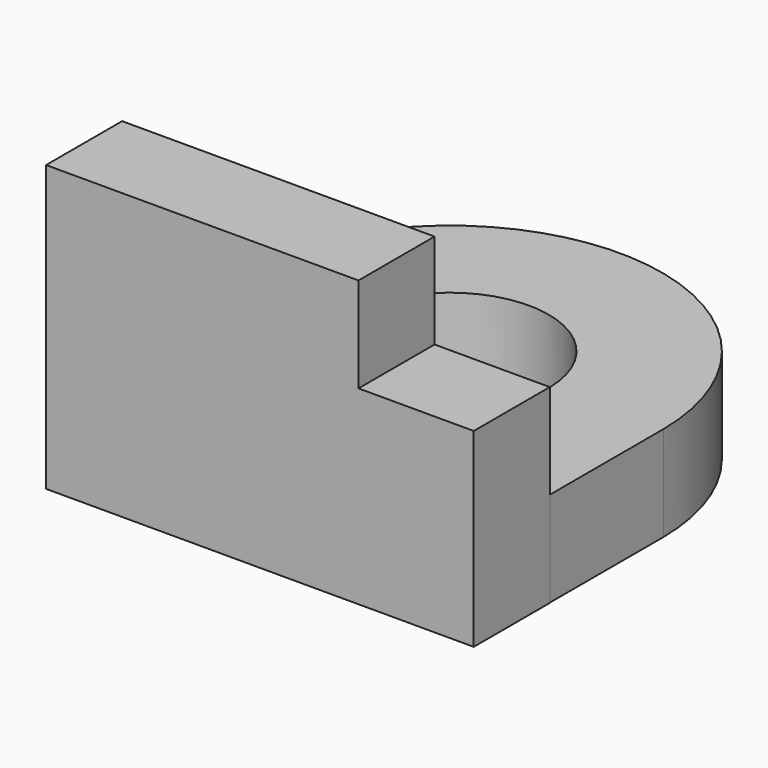
from build123d import *

# Parameters (mm, degrees)
F0_W     = 15.3987973437
F0_H     = 25.4
F1_DEPTH = 12.7
F3_DEPTH = 12.7


with BuildPart() as f1:
    # F0 (on Front) → F1 (new body)
    with BuildSketch(Plane.XZ):
        Polygon((-27.3676061763, 38.1), (-27.3676061763, 0), (14.38359648, 0), (14.38359648, 25.4), (14.38359648, 38.1), align=None)
        with Locations((22.0829951519, 12.7)):
            Rectangle(F0_W, F0_H)
    extrude(amount=F1_DEPTH)

    # F2 (on Top) → F3 (join)
    with BuildSketch(Plane.XY):
        with BuildLine():
            ThreePointArc((29.7399014235, 19.0850179642), (1.3229484896, 47.2574464843), (-27.0940044443, 19.0850179642))
            Line((-27.0940044443, 19.0850179642), (-11.9244960211, 19.0850179642))
            ThreePointArc((-11.9244960211, 19.0850179642), (1.3229484896, 32.0891530572), (14.5703930003, 19.0850179642))
            Line((14.5703930003, 19.0850179642), (29.7399014235, 19.0850179642))
        make_face()
        with BuildLine():
            ThreePointArc((-27.0940044443, 18.5938467712), (-25.2058095454, 8.6507855756), (-19.9528432558, 0))
            Line((-19.9528432558, 0), (22.598740235, 0))
            ThreePointArc((22.598740235, 0), (27.8517065245, 8.6507855756), (29.7399014235, 18.5938467712))
            Line((29.7399014235, 18.5938467712), (29.7399014235, 19.0850179642))
            Line((29.7399014235, 19.0850179642), (14.5703930003, 19.0850179642))
            ThreePointArc((14.5703930003, 19.0850179642), (14.5721001221, 18.96223044), (14.5726691791, 18.8394323677))
            ThreePointArc((14.5726691791, 18.8394323677), (1.2001504173, 5.5902807351), (-11.9244960211, 19.0850179642))
            Line((-11.9244960211, 19.0850179642), (-27.0940044443, 19.0850179642))
            Line((-27.0940044443, 19.0850179642), (-27.0940044443, 18.5938467712))
        make_face()
        with BuildLine():
            ThreePointArc((29.7399014235, 18.5938467712), (27.8517065245, 8.6507855756), (22.598740235, 0))
            Line((22.598740235, 0), (29.7399014235, 0))
            Line((29.7399014235, 0), (29.7399014235, 18.5938467712))
        make_face()
        with BuildLine():
            Line((-27.0940044443, 18.5938467712), (-27.0940044443, 0))
            Line((-27.0940044443, 0), (-19.9528432558, 0))
            ThreePointArc((-19.9528432558, 0), (-25.2058095454, 8.6507855756), (-27.0940044443, 18.5938467712))
        make_face()
    extrude(amount=F3_DEPTH)


solid = f1.part
